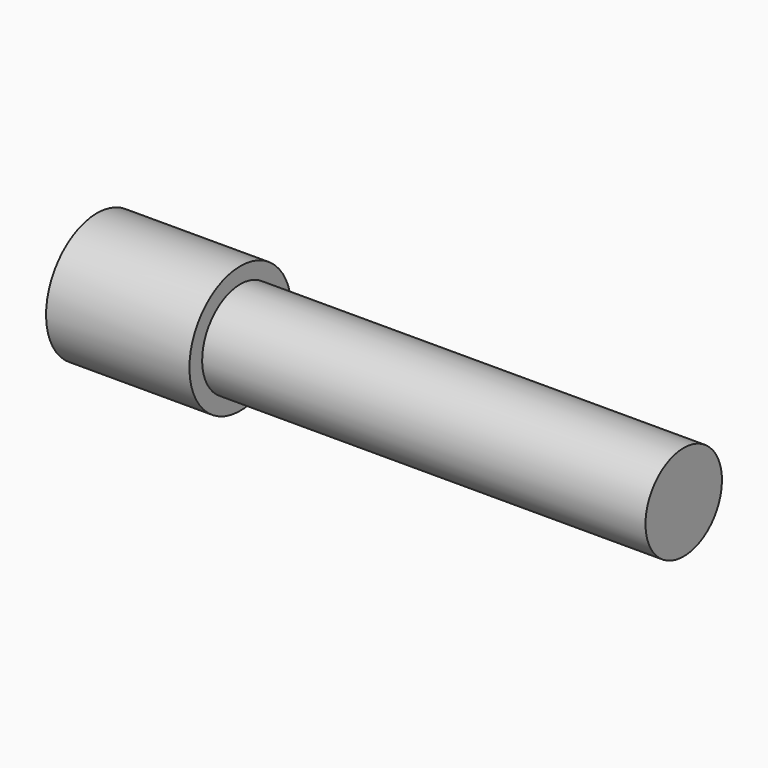
from build123d import *

# Parameters (mm, degrees)
F3_R     = 1.5
F5_DEPTH = 4.801
F4_R     = 1.5
F6_DEPTH = 4.801


with BuildPart() as f2:
    # F1 (on Front) → F2 (revolve)
    with BuildSketch(Plane.XZ):
        Polygon((0, 4.8), (0, 3.6), (9.6, 3.6), (9.6, 2.4), (18.6, 2.4), (43, 2.4), (43, 0), (44.2, 0), (44.2, 3.6), (18.6, 3.6), (10.8, 3.6), (10.8, 4.8), align=None)
    revolve(axis=Axis((43.6, 0, 0), (1, 0, 0)))

    # F3 (on Front) → F5 (cut, through all)
    with BuildSketch(Plane.XZ):
        with Locations((2.7, 0)):
            Circle(F3_R)
    extrude(amount=-F5_DEPTH, mode=Mode.SUBTRACT)

    # F4 (on Top) → F6 (cut, through all)
    with BuildSketch(Plane.XY):
        with Locations((6.9, 0)):
            Circle(F4_R)
    extrude(amount=-F6_DEPTH, mode=Mode.SUBTRACT)


solid = f2.part
